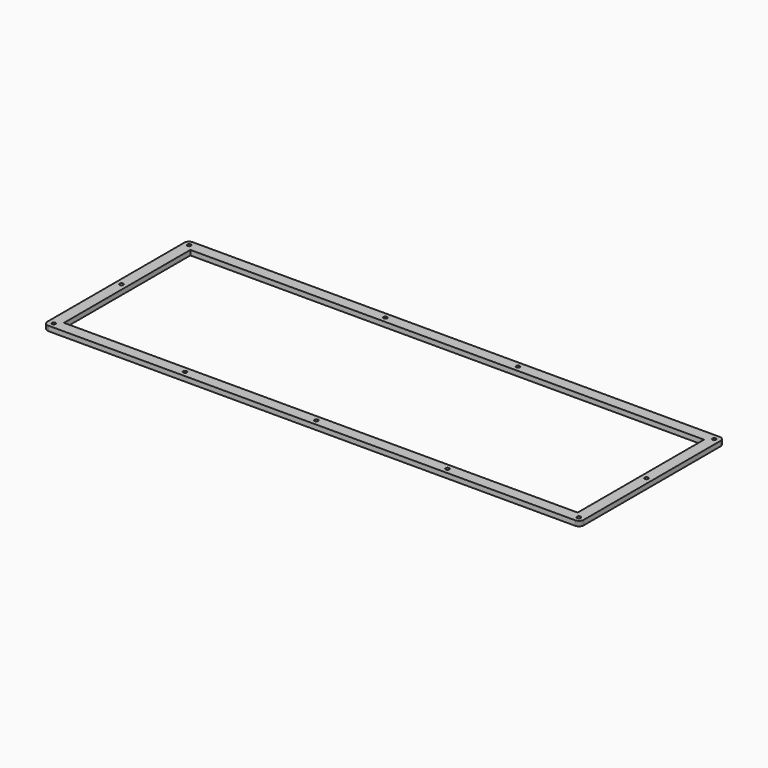
from build123d import *

# Parameters (mm, degrees)
F0_W     = 316.32585
F0_H     = 97.24985
F1_DEPTH = 3


with BuildPart() as f1:
    # F0 (on Top) → F1 (new body)
    with BuildSketch(Plane.XY):
        Polygon((162.399336, 55.615647), (162.163336, 55.624647), (-162.161964, 55.625647), (-162.397614, 55.615647), (-162.631884, 55.588647), (-162.863394, 55.542647), (-163.089384, 55.478647), (-163.311254, 55.397647), (-163.523464, 55.297647), (-163.730174, 55.182647), (-163.925854, 55.052647), (-164.110514, 54.906647), (-164.284146, 54.746647), (-164.444, 54.573647), (-164.590071, 54.388647), (-164.719608, 54.192647), (-164.835361, 53.986647), (-164.934581, 53.773647), (-165.015885, 53.552647), (-165.079275, 53.325647), (-165.126128, 53.094647), (-165.152311, 52.860647), (-165.161957, 52.624647), (-165.163335, -52.625653), (-165.152311, -52.861303), (-165.126128, -53.095573), (-165.079275, -53.325703), (-165.015885, -53.553073), (-164.934581, -53.774943), (-164.835361, -53.987153), (-164.719608, -54.193863), (-164.590071, -54.389543), (-164.444, -54.574203), (-164.284146, -54.747835), (-164.110514, -54.907689), (-163.925854, -55.05376), (-163.730174, -55.183297), (-163.523464, -55.29905), (-163.311254, -55.396892), (-163.089384, -55.479574), (-162.863394, -55.542964), (-162.631884, -55.589817), (-162.397614, -55.616), (-162.161964, -55.625646), (162.163336, -55.625646), (162.399336, -55.616), (162.633336, -55.589817), (162.863336, -55.542964), (163.090336, -55.479574), (163.312336, -55.396892), (163.525336, -55.29905), (163.731336, -55.183297), (163.927336, -55.05376), (164.112336, -54.907689), (164.285336, -54.747835), (164.445336, -54.574203), (164.591336, -54.389543), (164.721336, -54.193863), (164.836336, -53.987153), (164.934336, -53.774943), (165.017336, -53.553073), (165.081336, -53.325703), (165.127336, -53.095573), (165.154336, -52.861303), (165.163336, -52.625653), (165.163336, 52.624647), (165.154336, 52.860647), (165.127336, 53.094647), (165.081336, 53.325647), (165.017336, 53.552647), (164.934336, 53.773647), (164.836336, 53.986647), (164.721336, 54.192647), (164.591336, 54.388647), (164.445336, 54.573647), (164.285336, 54.746647), (164.112336, 54.906647), (163.927336, 55.052647), (163.731336, 55.182647), (163.525336, 55.297647), (163.312336, 55.397647), (163.090336, 55.478647), (162.863336, 55.542647), (162.633336, 55.588647), align=None)
        Polygon((-162.327334, -51.211803), (-162.011764, -51.051923), (-161.661744, -50.995443), (-161.313094, -51.051923), (-160.997534, -51.211803), (-160.748114, -51.461223), (-160.588234, -51.776783), (-160.531754, -52.125433), (-160.588234, -52.475453), (-160.748114, -52.789643), (-160.997534, -53.040443), (-161.313094, -53.200293), (-161.661744, -53.256803), (-162.011764, -53.200293), (-162.327334, -53.040443), (-162.576754, -52.789643), (-162.736604, -52.475453), (-162.793114, -52.125433), (-162.736604, -51.776783), (-162.576754, -51.461223), align=None, mode=Mode.SUBTRACT)
        Polygon((-81.494264, -51.211803), (-81.180264, -51.051923), (-80.831364, -50.995443), (-80.481364, -51.051923), (-80.167464, -51.211803), (-79.916564, -51.461223), (-79.755364, -51.776783), (-79.701364, -52.125433), (-79.755364, -52.475453), (-79.916564, -52.789643), (-80.167464, -53.040443), (-80.481364, -53.200293), (-80.831364, -53.256803), (-81.180264, -53.200293), (-81.494264, -53.040443), (-81.745064, -52.789643), (-81.906264, -52.475453), (-81.961664, -52.125433), (-81.906264, -51.776783), (-81.745064, -51.461223), align=None, mode=Mode.SUBTRACT)
        Polygon((-0.663664, -51.211803), (-0.348664, -51.051923), (0.001336, -50.995443), (0.350336, -51.051923), (0.665336, -51.211803), (0.915336, -51.461223), (1.074336, -51.776783), (1.131336, -52.125433), (1.074336, -52.475453), (0.915336, -52.789643), (0.665336, -53.040443), (0.350336, -53.200293), (0.001336, -53.256803), (-0.348664, -53.200293), (-0.663664, -53.040443), (-0.913664, -52.789643), (-1.073664, -52.475453), (-1.129664, -52.125433), (-1.073664, -51.776783), (-0.913664, -51.461223), align=None, mode=Mode.SUBTRACT)
        Polygon((80.167336, -51.211803), (80.483336, -51.051923), (80.831336, -50.995443), (81.181336, -51.051923), (81.495336, -51.211803), (81.746336, -51.461223), (81.906336, -51.776783), (81.961336, -52.125433), (81.906336, -52.475453), (81.746336, -52.789643), (81.495336, -53.040443), (81.181336, -53.200293), (80.831336, -53.256803), (80.483336, -53.200293), (80.167336, -53.040443), (79.917336, -52.789643), (79.756336, -52.475453), (79.701336, -52.125433), (79.756336, -51.776783), (79.917336, -51.461223), align=None, mode=Mode.SUBTRACT)
        Polygon((160.999336, -51.211803), (161.314336, -51.051923), (161.664336, -50.995443), (162.013336, -51.051923), (162.327336, -51.211803), (162.578336, -51.461223), (162.738336, -51.776783), (162.794336, -52.125433), (162.738336, -52.475453), (162.578336, -52.789643), (162.327336, -53.040443), (162.013336, -53.200293), (161.664336, -53.256803), (161.314336, -53.200293), (160.999336, -53.040443), (160.749336, -52.789643), (160.589336, -52.475453), (160.533336, -52.125433), (160.589336, -51.776783), (160.749336, -51.461223), align=None, mode=Mode.SUBTRACT)
        with Locations((0.001411, -0.000278)):
            Rectangle(F0_W, F0_H, mode=Mode.SUBTRACT)
        Polygon((-162.327334, 0.913847), (-162.011764, 1.075047), (-161.661744, 1.130047), (-161.313094, 1.075047), (-160.997534, 0.913847), (-160.748114, 0.663047), (-160.588234, 0.349047), (-160.531754, 0.000147), (-160.588234, -0.349853), (-160.748114, -0.663753), (-160.997534, -0.914653), (-161.313094, -1.074753), (-161.661744, -1.129853), (-162.011764, -1.074753), (-162.327334, -0.914653), (-162.576754, -0.663753), (-162.736604, -0.349853), (-162.793114, 0.000147), (-162.736604, 0.349047), (-162.576754, 0.663047), align=None, mode=Mode.SUBTRACT)
        Polygon((-162.327334, 53.039647), (-162.011764, 53.199647), (-161.661744, 53.255647), (-161.313094, 53.199647), (-160.997534, 53.039647), (-160.748114, 52.790647), (-160.588234, 52.474647), (-160.531754, 52.124647), (-160.588234, 51.775647), (-160.748114, 51.460647), (-160.997534, 51.210647), (-161.313094, 51.050647), (-161.661744, 50.994647), (-162.011764, 51.050647), (-162.327334, 51.210647), (-162.576754, 51.460647), (-162.736604, 51.775647), (-162.793114, 52.124647), (-162.736604, 52.474647), (-162.576754, 52.790647), align=None, mode=Mode.SUBTRACT)
        Polygon((-41.494264, 53.039647), (-41.180264, 53.199647), (-40.831364, 53.255647), (-40.481364, 53.199647), (-40.167464, 53.039647), (-39.916564, 52.790647), (-39.755364, 52.474647), (-39.701364, 52.124647), (-39.755364, 51.775647), (-39.916564, 51.460647), (-40.167464, 51.210647), (-40.481364, 51.050647), (-40.831364, 50.994647), (-41.180264, 51.050647), (-41.494264, 51.210647), (-41.745064, 51.460647), (-41.906264, 51.775647), (-41.961664, 52.124647), (-41.906264, 52.474647), (-41.745064, 52.790647), align=None, mode=Mode.SUBTRACT)
        Polygon((160.999336, 0.913847), (161.314336, 1.075047), (161.664336, 1.130047), (162.013336, 1.075047), (162.327336, 0.913847), (162.578336, 0.663047), (162.738336, 0.349047), (162.794336, 0.000147), (162.738336, -0.349853), (162.578336, -0.663753), (162.327336, -0.914653), (162.013336, -1.074753), (161.664336, -1.129853), (161.314336, -1.074753), (160.999336, -0.914653), (160.749336, -0.663753), (160.589336, -0.349853), (160.533336, 0.000147), (160.589336, 0.349047), (160.749336, 0.663047), align=None, mode=Mode.SUBTRACT)
        Polygon((40.167336, 53.039647), (40.483336, 53.199647), (40.831336, 53.255647), (41.181336, 53.199647), (41.495336, 53.039647), (41.746336, 52.790647), (41.906336, 52.474647), (41.961336, 52.124647), (41.906336, 51.775647), (41.746336, 51.460647), (41.495336, 51.210647), (41.181336, 51.050647), (40.831336, 50.994647), (40.483336, 51.050647), (40.167336, 51.210647), (39.917336, 51.460647), (39.756336, 51.775647), (39.701336, 52.124647), (39.756336, 52.474647), (39.917336, 52.790647), align=None, mode=Mode.SUBTRACT)
        Polygon((160.999336, 53.039647), (161.314336, 53.199647), (161.664336, 53.255647), (162.013336, 53.199647), (162.327336, 53.039647), (162.578336, 52.790647), (162.738336, 52.474647), (162.794336, 52.124647), (162.738336, 51.775647), (162.578336, 51.460647), (162.327336, 51.210647), (162.013336, 51.050647), (161.664336, 50.994647), (161.314336, 51.050647), (160.999336, 51.210647), (160.749336, 51.460647), (160.589336, 51.775647), (160.533336, 52.124647), (160.589336, 52.474647), (160.749336, 52.790647), align=None, mode=Mode.SUBTRACT)
    extrude(amount=F1_DEPTH)


solid = f1.part
